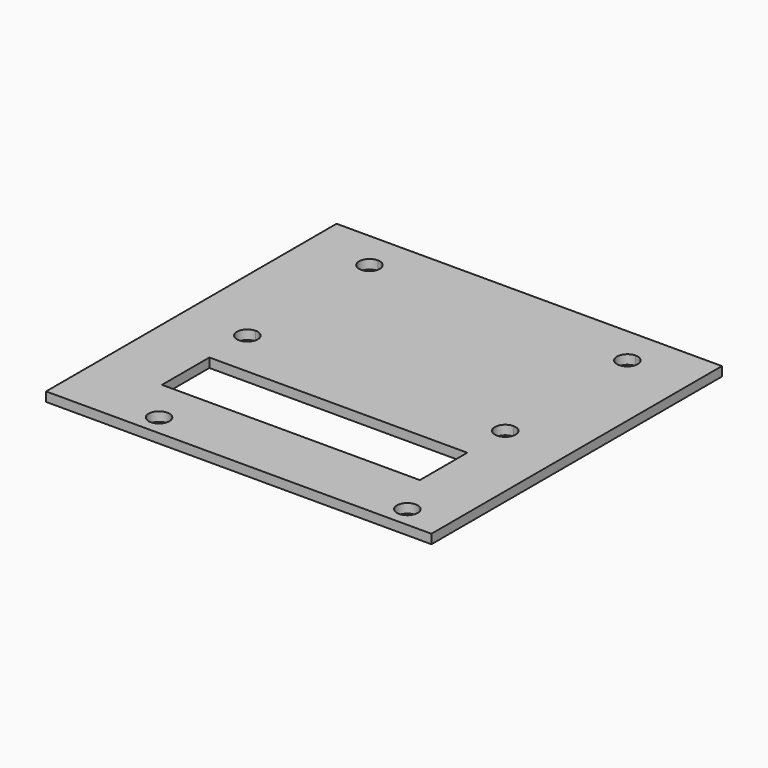
from build123d import *

# Parameters (mm, degrees)
F1_DEPTH = 1.5875


with BuildPart() as f1:
    # F0 (on Top) → F1 (new body)
    with BuildSketch(Plane.XY):
        with BuildLine():
            Line((22.098, 26.289), (22.098, 31.115))
            Line((22.098, 31.115), (-22.098, 31.115))
            Line((-22.098, 31.115), (-22.098, 26.289))
            ThreePointArc((-22.098, 26.289), (-20.8407641431, 25.7682358569), (-20.32, 24.511))
            ThreePointArc((-20.32, 24.511), (-20.8407641431, 23.2537641431), (-22.098, 22.733))
            Line((-22.098, 22.733), (-22.098, 0.127))
            ThreePointArc((-22.098, 0.127), (-20.8407641431, -0.3937641431), (-20.32, -1.651))
            ThreePointArc((-20.32, -1.651), (-20.8407641431, -2.9082358569), (-22.098, -3.429))
            Line((-22.098, -3.429), (-22.098, -9.779))
            Line((-22.098, -9.779), (22.098, -9.779))
            Line((22.098, -9.779), (22.098, -3.429))
            ThreePointArc((22.098, -3.429), (20.32, -1.651), (22.098, 0.127))
            Line((22.098, 0.127), (22.098, 22.733))
            ThreePointArc((22.098, 22.733), (20.32, 24.511), (22.098, 26.289))
        make_face()
        with BuildLine():
            Line((-22.098, 26.289), (-22.098, 31.115))
            Line((-22.098, 31.115), (-33.02, 31.115))
            Line((-33.02, 31.115), (-33.02, -31.115))
            Line((-33.02, -31.115), (-22.098, -31.115))
            Line((-22.098, -31.115), (-22.098, -27.559))
            Line((-22.098, -27.559), (-22.098, -19.939))
            Line((-22.098, -19.939), (-22.098, -9.779))
            Line((-22.098, -9.779), (-22.098, -3.429))
            ThreePointArc((-22.098, -3.429), (-23.876, -1.651), (-22.098, 0.127))
            Line((-22.098, 0.127), (-22.098, 22.733))
            ThreePointArc((-22.098, 22.733), (-23.876, 24.511), (-22.098, 26.289))
        make_face()
        with BuildLine():
            Line((33.02, -27.559), (33.02, 31.115))
            Line((33.02, 31.115), (22.098, 31.115))
            Line((22.098, 31.115), (22.098, 26.289))
            ThreePointArc((22.098, 26.289), (23.3552358569, 25.7682358569), (23.876, 24.511))
            ThreePointArc((23.876, 24.511), (23.3552358569, 23.2537641431), (22.098, 22.733))
            Line((22.098, 22.733), (22.098, 0.127))
            ThreePointArc((22.098, 0.127), (23.3552358569, -0.3937641431), (23.876, -1.651))
            ThreePointArc((23.876, -1.651), (23.3552358569, -2.9082358569), (22.098, -3.429))
            Line((22.098, -3.429), (22.098, -9.779))
            Line((22.098, -9.779), (22.098, -19.939))
            Line((22.098, -19.939), (22.098, -27.559))
            Line((22.098, -27.559), (24.2697, -27.559))
            ThreePointArc((24.2697, -27.559), (26.0477, -25.781), (27.8257, -27.559))
            Line((27.8257, -27.559), (33.02, -27.559))
        make_face()
        with BuildLine():
            Line((33.02, -31.115), (33.02, -27.559))
            Line((33.02, -27.559), (27.8257, -27.559))
            ThreePointArc((27.8257, -27.559), (26.0477, -29.337), (24.2697, -27.559))
            Line((24.2697, -27.559), (22.098, -27.559))
            Line((22.098, -27.559), (22.098, -31.115))
            Line((22.098, -31.115), (33.02, -31.115))
        make_face()
        with BuildLine():
            Line((-14.732, -27.559), (22.098, -27.559))
            Line((22.098, -27.559), (22.098, -19.939))
            Line((22.098, -19.939), (-22.098, -19.939))
            Line((-22.098, -19.939), (-22.098, -27.559))
            Line((-22.098, -27.559), (-18.288, -27.559))
            ThreePointArc((-18.288, -27.559), (-16.51, -25.781), (-14.732, -27.559))
        make_face()
        with BuildLine():
            Line((-22.098, -31.115), (22.098, -31.115))
            Line((22.098, -31.115), (22.098, -27.559))
            Line((22.098, -27.559), (-14.732, -27.559))
            ThreePointArc((-14.732, -27.559), (-16.51, -29.337), (-18.288, -27.559))
            Line((-18.288, -27.559), (-22.098, -27.559))
            Line((-22.098, -27.559), (-22.098, -31.115))
        make_face()
        with BuildLine():
            Line((33.02, -27.559), (33.02, 31.115))
            Line((33.02, 31.115), (22.098, 31.115))
            Line((22.098, 31.115), (22.098, 26.289))
            ThreePointArc((22.098, 26.289), (23.3552358569, 25.7682358569), (23.876, 24.511))
            ThreePointArc((23.876, 24.511), (23.3552358569, 23.2537641431), (22.098, 22.733))
            Line((22.098, 22.733), (22.098, 0.127))
            ThreePointArc((22.098, 0.127), (23.3552358569, -0.3937641431), (23.876, -1.651))
            ThreePointArc((23.876, -1.651), (23.3552358569, -2.9082358569), (22.098, -3.429))
            Line((22.098, -3.429), (22.098, -9.779))
            Line((22.098, -9.779), (22.098, -19.939))
            Line((22.098, -19.939), (22.098, -27.559))
            Line((22.098, -27.559), (24.2697, -27.559))
            ThreePointArc((24.2697, -27.559), (26.0477, -25.781), (27.8257, -27.559))
            Line((27.8257, -27.559), (33.02, -27.559))
        make_face()
    extrude(amount=F1_DEPTH)


solid = f1.part
